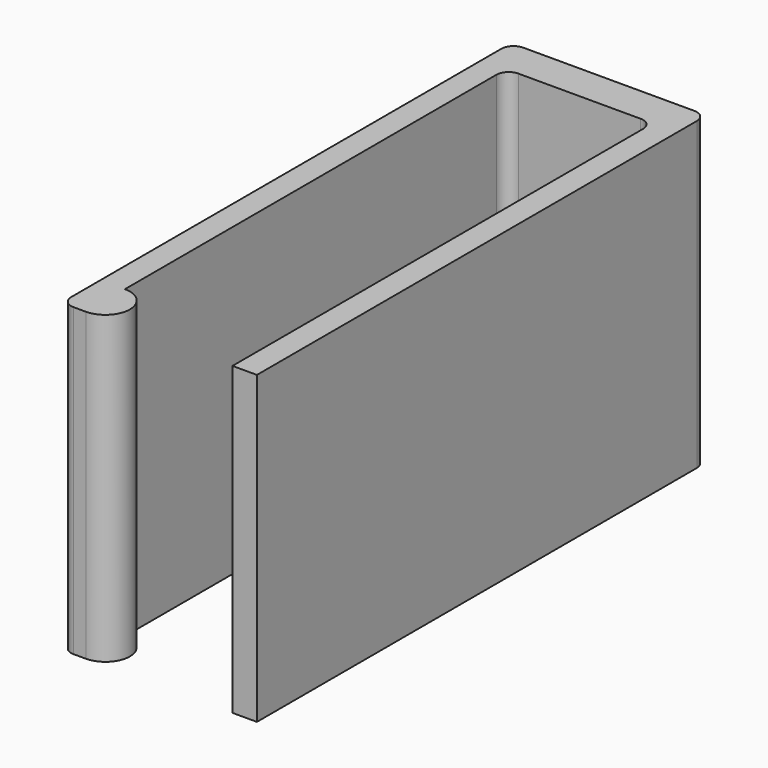
from build123d import *

# Parameters (mm, degrees)
PAD_DEPTH = 25
FILLET_R  = 1


with BuildPart() as part:
    # Sketch → Pad (new body)
    with BuildSketch(Plane.XY):
        with BuildLine():
            Line((8, 0), (8, -45))
            Line((8, -45), (6, -45))
            Line((6, -45), (6, -3))
            ThreePointArc((6, -3), (5.707107, -2.292893), (5, -2))
            Line((-5, -2), (5, -2))
            ThreePointArc((-5, -2), (-5.707107, -2.292893), (-6, -3))
            Line((-6, -3), (-6, -41))
            ThreePointArc((-6, -45), (-4, -43), (-6, -41))
            Line((-6, -45), (-8, -45))
            Line((-8, -45), (-8, 0))
            ThreePointArc((-7, 1), (-7.707107, 0.707107), (-8, 0))
            Line((-7, 1), (7, 1))
            ThreePointArc((8, 0), (7.707107, 0.707107), (7, 1))
        make_face()
    extrude(amount=PAD_DEPTH)

    # Fillet
    fillet_edges = [part.edges().sort_by_distance(p)[0] for p in [
        (-8, -45, 12.5),
    ]]
    fillet(fillet_edges, radius=FILLET_R)


solid = part.part
